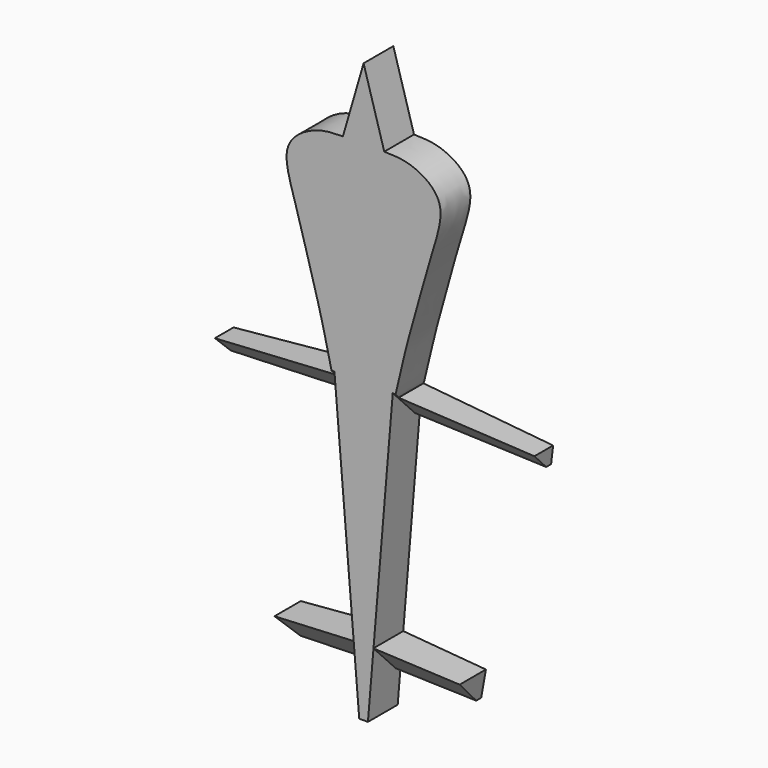
from build123d import *

# Parameters (mm, degrees)
F1_DEPTH = 6.096
F2_SIZE  = 5.08
F3_SIZE  = 5.08
F4_SIZE  = 5.08
F5_SIZE  = 5.08


with BuildPart() as f1:
    # F0 (on Front) → F1 (new body)
    with BuildSketch(Plane.XZ):
        with BuildLine():
            Line((0, 20.2803085162), (0, 45.9340810776))
            add(Edge.make_bspline(
                [(0, 45.9340810776), (-1.1389014306, 46.0114949237), (-2.2794765797, 46.0908397164), (-3.3874711399, 46.1016858359)],
                knots=[0, 0, 0, 0, 0.0644331464, 0.0644331464, 0.0644331464, 0.0644331464], degree=3))
            add(Edge.make_bspline(
                [(-3.3874711399, 46.1016858359), (-4.5918937858, 46.1134758865), (-7.6399537199, 45.932697384), (-11.3500527225, 43.9131780528), (-12.9919049147, 40.8775722979), (-12.0912484402, 36.5949284774), (-10.4183061964, 31.6267656453), (-8.4874951951, 24.1961510451), (-6.8598737351, 19.0046316817), (-5.1160297689, 10.9332008272), (-5.0169141032, 10.8808381483)],
                knots=[0.0644331464, 0.0644331464, 0.0644331464, 0.0644331464, 0.13447387, 0.2475396431, 0.3378948434, 0.4416458535, 0.5615697227, 0.7004964526, 0.8354523914, 0.9737557397, 0.9737557397, 0.9737557397, 0.9737557397], degree=3))
            Line((-5.0169141032, 10.8808381483), (-4.9365200102, 10.7033615932))
            add(Edge.make_bspline(
                [(0, 20.2803085162), (-5.1031475964, 20.2803085162), (-4.9365200102, 10.7033615932)],
                knots=[3.1415926536, 3.1415926536, 3.1415926536, 4.7450467089, 4.7450467089, 4.7450467089], degree=2, weights=[1, 0.6954667772, 1]))
        make_face()
        with BuildLine():
            add(Edge.make_bspline(
                [(0, 45.9340810776), (1.1389014306, 46.0114949237), (2.2794765797, 46.0908397164), (3.3874711399, 46.1016858359)],
                knots=[0, 0, 0, 0, 0.0644331464, 0.0644331464, 0.0644331464, 0.0644331464], degree=3))
            Line((0, 45.9340810776), (0, 20.2803085162))
            add(Edge.make_bspline(
                [(4.9365969051, 10.7078139024), (5.1006956981, 20.2803085162), (0, 20.2803085162)],
                knots=[1.5386189291, 1.5386189291, 1.5386189291, 3.1415926536, 3.1415926536, 3.1415926536], degree=2, weights=[1, 0.6956393299, 1]))
            Line((4.9365969051, 10.7078139024), (5.0169141032, 10.8808381483))
            add(Edge.make_bspline(
                [(3.3874711399, 46.1016858359), (4.5918937858, 46.1134758865), (7.6399537199, 45.932697384), (11.3500527225, 43.9131780528), (12.9919049147, 40.8775722979), (12.0912484402, 36.5949284774), (10.4183061964, 31.6267656453), (8.4874951951, 24.1961510451), (6.8598737351, 19.0046316817), (5.1160297689, 10.9332008272), (5.0169141032, 10.8808381483)],
                knots=[0.0644331464, 0.0644331464, 0.0644331464, 0.0644331464, 0.13447387, 0.2475396431, 0.3378948434, 0.4416458535, 0.5615697227, 0.7004964526, 0.8354523914, 0.9737557397, 0.9737557397, 0.9737557397, 0.9737557397], degree=3))
        make_face()
        with BuildLine():
            add(Edge.make_bspline(
                [(0, 45.9340810776), (-1.1389014306, 46.0114949237), (-2.2794765797, 46.0908397164), (-3.3874711399, 46.1016858359)],
                knots=[0, 0, 0, 0, 0.0644331464, 0.0644331464, 0.0644331464, 0.0644331464], degree=3))
            add(Edge.make_bspline(
                [(0, 45.9340810776), (1.1389014306, 46.0114949237), (2.2794765797, 46.0908397164), (3.3874711399, 46.1016858359)],
                knots=[0, 0, 0, 0, 0.0644331464, 0.0644331464, 0.0644331464, 0.0644331464], degree=3))
            Line((3.3874711399, 46.1016858359), (0, 57.755921036))
            Line((0, 57.755921036), (-3.3874711399, 46.1016858359))
        make_face()
        with BuildLine():
            Line((0, 1.7320509615), (0, 20.2803085162))
            add(Edge.make_bspline(
                [(0, 20.2803085162), (-5.1031475964, 20.2803085162), (-4.9365200102, 10.7033615932)],
                knots=[3.1415926536, 3.1415926536, 3.1415926536, 4.7450467089, 4.7450467089, 4.7450467089], degree=2, weights=[1, 0.6954667772, 1]))
            add(Edge.make_bspline(
                [(-4.9365200102, 10.7033615932), (-4.898983165, 8.5459254669), (-4.3579266312, 6.641355379)],
                knots=[4.7450467089, 4.7450467089, 4.7450467089, 5.2024108881, 5.2024108881, 5.2024108881], degree=2, weights=[1, 0.9739660033, 1]))
            add(Edge.make_bspline(
                [(-4.3579266312, 6.641355379), (-2.9632752876, 1.7320509615), (0, 1.7320509615)],
                knots=[5.2024108881, 5.2024108881, 5.2024108881, 6.2831853072, 6.2831853072, 6.2831853072], degree=2, weights=[1, 0.8575095387, 1]))
        make_face()
        with BuildLine():
            add(Edge.make_bspline(
                [(4.9365969051, 10.7078139024), (5.1006956981, 20.2803085162), (0, 20.2803085162)],
                knots=[1.5386189291, 1.5386189291, 1.5386189291, 3.1415926536, 3.1415926536, 3.1415926536], degree=2, weights=[1, 0.6956393299, 1]))
            Line((0, 20.2803085162), (0, 1.7320509615))
            add(Edge.make_bspline(
                [(0, 1.7320509615), (2.9632752876, 1.7320509615), (4.3579266312, 6.641355379)],
                knots=[0, 0, 0, 1.0807744191, 1.0807744191, 1.0807744191], degree=2, weights=[1, 0.8575095387, 1]))
            add(Edge.make_bspline(
                [(4.3579266312, 6.641355379), (4.898983165, 8.5459254669), (4.9365200102, 10.7033615932)],
                knots=[1.0807744191, 1.0807744191, 1.0807744191, 1.5381385983, 1.5381385983, 1.5381385983], degree=2, weights=[1, 0.9739660033, 1]))
            add(Edge.make_bspline(
                [(4.9365200102, 10.7033615932), (4.9365587424, 10.7055877305), (4.9365969051, 10.7078139024)],
                knots=[1.5381385983, 1.5381385983, 1.5381385983, 1.5386189291, 1.5386189291, 1.5386189291], degree=2, weights=[1, 0.9999999712, 1]))
        make_face()
        with BuildLine():
            Line((26.1861383915, 8.6479401216), (4.9365200102, 10.7033615932))
            add(Edge.make_bspline(
                [(4.3579266312, 6.641355379), (4.898983165, 8.5459254669), (4.9365200102, 10.7033615932)],
                knots=[1.0807744191, 1.0807744191, 1.0807744191, 1.5381385983, 1.5381385983, 1.5381385983], degree=2, weights=[1, 0.9739660033, 1]))
            Line((4.3579266312, 6.641355379), (25.8603654802, 5.8462861925))
            Line((25.8603654802, 5.8462861925), (26.1861383915, 8.6479401216))
        make_face()
        with BuildLine():
            add(Edge.make_bspline(
                [(-4.9365200102, 10.7033615932), (-4.898983165, 8.5459254669), (-4.3579266312, 6.641355379)],
                knots=[4.7450467089, 4.7450467089, 4.7450467089, 5.2024108881, 5.2024108881, 5.2024108881], degree=2, weights=[1, 0.9739660033, 1]))
            Line((-4.9365200102, 10.7033615932), (-26.1861383915, 8.6479401216))
            Line((-26.1861383915, 8.6479401216), (-25.8603654802, 5.8462861925))
            Line((-25.8603654802, 5.8462861925), (-4.3579266312, 6.641355379))
        make_face()
        with BuildLine():
            Line((0, -37.0522124614), (0, 1.7320509615))
            add(Edge.make_bspline(
                [(-4.3579266312, 6.641355379), (-2.9632752876, 1.7320509615), (0, 1.7320509615)],
                knots=[5.2024108881, 5.2024108881, 5.2024108881, 6.2831853072, 6.2831853072, 6.2831853072], degree=2, weights=[1, 0.8575095387, 1]))
            Line((-4.3579266312, 6.641355379), (-1.6238323207, -26.1266239599))
            Line((-1.6238323207, -26.1266239599), (-1.1992467089, -31.2152606249))
            Line((-1.1992467089, -31.2152606249), (-0.7122231839, -37.0522124614))
            Line((-0.7122231839, -37.0522124614), (0, -37.0522124614))
        make_face()
        with BuildLine():
            add(Edge.make_bspline(
                [(0, 1.7320509615), (2.9632752876, 1.7320509615), (4.3579266312, 6.641355379)],
                knots=[0, 0, 0, 1.0807744191, 1.0807744191, 1.0807744191], degree=2, weights=[1, 0.8575095387, 1]))
            Line((0, 1.7320509615), (0, -37.0522124614))
            Line((0, -37.0522124614), (0.7122231839, -37.0522124614))
            Line((0.7122231839, -37.0522124614), (1.1992467089, -31.2152606249))
            Line((1.1992467089, -31.2152606249), (1.6238323207, -26.1266239599))
            Line((1.6238323207, -26.1266239599), (4.3579266312, 6.641355379))
        make_face()
        Polygon((15.173734748, -27.257200574), (1.6238323207, -26.1266239599), (1.1992467089, -31.2152606249), (14.3991941586, -31.6000394523), align=None)
        Polygon((-1.1992467089, -31.2152606249), (-1.6238323207, -26.1266239599), (-15.173734748, -27.257200574), (-14.3991941586, -31.6000394523), align=None)
    extrude(amount=F1_DEPTH)

    # F2
    f2_edges = [f1.edges().sort_by_distance(p)[0] for p in [
        (-15.109146, -6.096, 6.243821),
    ]]
    chamfer(f2_edges, length=F2_SIZE)

    # F3
    f3_edges = [f1.edges().sort_by_distance(p)[0] for p in [
        (15.109146, -6.096, 6.243821),
    ]]
    chamfer(f3_edges, length=F3_SIZE)

    # F4
    f4_edges = [f1.edges().sort_by_distance(p)[0] for p in [
        (-7.79922, -6.096, -31.40765),
    ]]
    chamfer(f4_edges, length=F4_SIZE)

    # F5
    f5_edges = [f1.edges().sort_by_distance(p)[0] for p in [
        (7.79922, -6.096, -31.40765),
    ]]
    chamfer(f5_edges, length=F5_SIZE)


solid = f1.part
